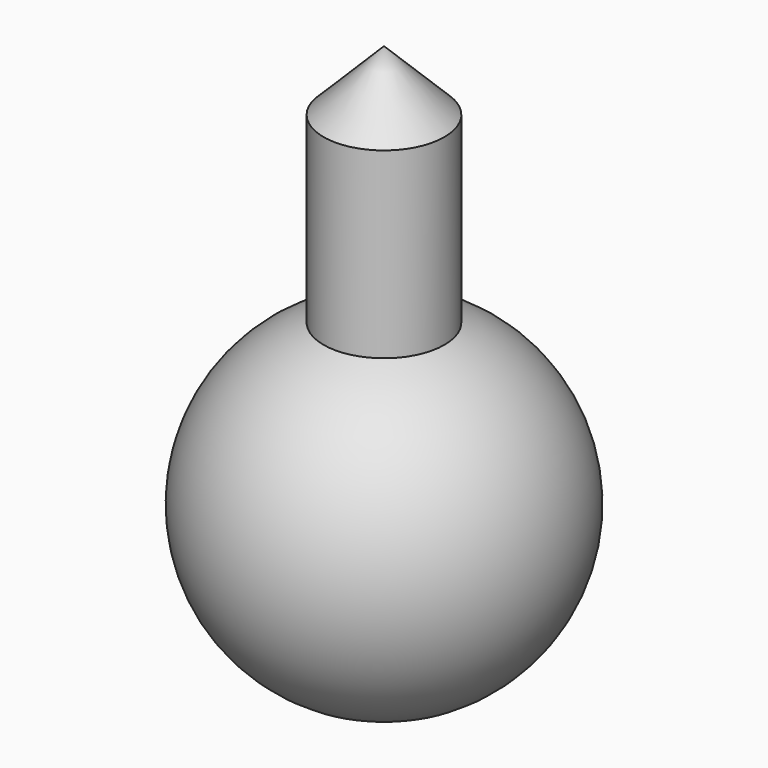
from build123d import *

# Parameters (mm, degrees)
F2_R     = 19.05
F3_DEPTH = 25.4
F4_DEPTH = 127
F5_SIZE  = 19.05


with BuildPart() as f1:
    # F0 (on Front) → F1 (revolve)
    with BuildSketch(Plane.XZ):
        with BuildLine():
            Line((0, 0), (0, 53.77469))
            ThreePointArc((0, 53.77469), (-53.77469, 0), (0, -53.77469))
            Line((0, -53.77469), (0, 0))
        make_face()
    revolve(axis=Axis((0, 0, 26.887345), (0, 0, -1)))



with BuildPart() as f3:
    # F2 (on Top) → F3 (new body)
    with BuildSketch(Plane.XY):
        Circle(F2_R)
    extrude(amount=-F3_DEPTH)


with BuildPart() as f1_1:
    add(f1.part)

    add(f3.part)  # F4 merges F3
    # F2 (on Top) → F4 (join)
    with BuildSketch(Plane.XY):
        Circle(F2_R)
    extrude(amount=F4_DEPTH)

    # F5
    f5_edges = [f1_1.edges().sort_by_distance(p)[0] for p in [
        (-19.05, 0, 127),
    ]]
    chamfer(f5_edges, length=F5_SIZE)


solid = f1_1.part
